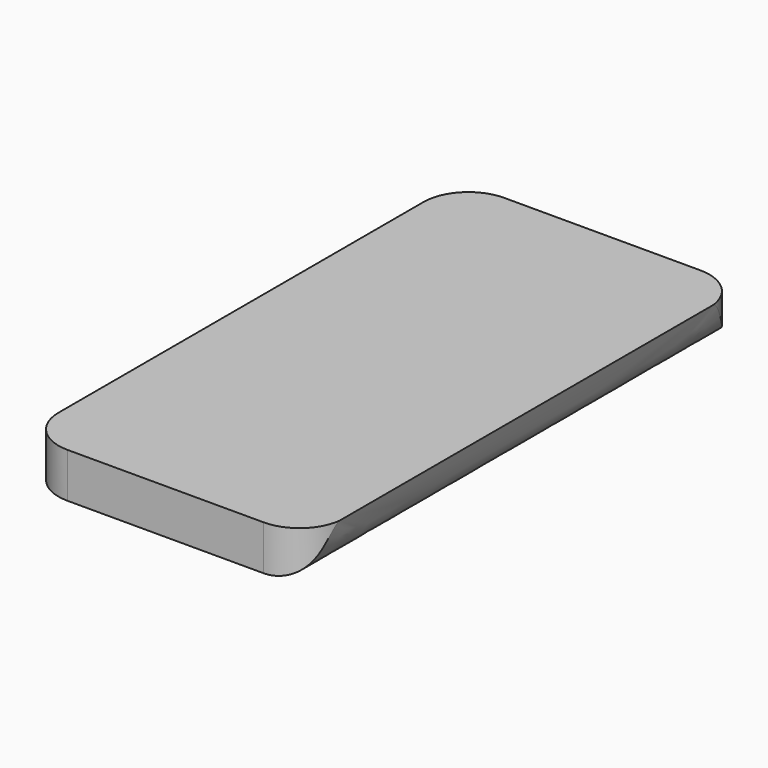
from build123d import *

# Parameters (mm, degrees)
F1_DEPTH = 10
F3_DEPTH = 123.8


with BuildPart() as f1:
    # F0 (on Top) → F1 (new body)
    with BuildSketch(Plane.XY):
        with BuildLine():
            Line((21.875, 60.875), (-21.875, 60.875))
            ThreePointArc((-21.875, 60.875), (-28.9460678119, 57.9460678119), (-31.875, 50.875))
            Line((-31.875, 50.875), (-31.875, -50.875))
            ThreePointArc((-31.875, -50.875), (-28.9460678119, -57.9460678119), (-21.875, -60.875))
            Line((-21.875, -60.875), (21.875, -60.875))
            ThreePointArc((21.875, -60.875), (28.9460678119, -57.9460678119), (31.875, -50.875))
            Line((31.875, -50.875), (31.875, 50.875))
            ThreePointArc((31.875, 50.875), (28.9460678119, 57.9460678119), (21.875, 60.875))
        make_face()
    extrude(amount=F1_DEPTH)

    # F2 (on face) → F3 (cut, symmetric)
    with BuildSketch(Plane.XZ.offset(60.875)):
        with BuildLine():
            add(Edge.make_bspline(
                [(21.875, 0), (30.6683350354, 0), (30.6994896382, 5.4293456487), (31.9338776171, 10.6412107125)],
                knots=[0, 0, 0, 0, 14.6429636462, 14.6429636462, 14.6429636462, 14.6429636462], degree=3))
            Line((21.875, 0), (31.9338776171, 0))
            Line((31.9338776171, 0), (31.9338776171, 10.6412107125))
        make_face()
    extrude(amount=F3_DEPTH, both=True, mode=Mode.SUBTRACT)


solid = f1.part
